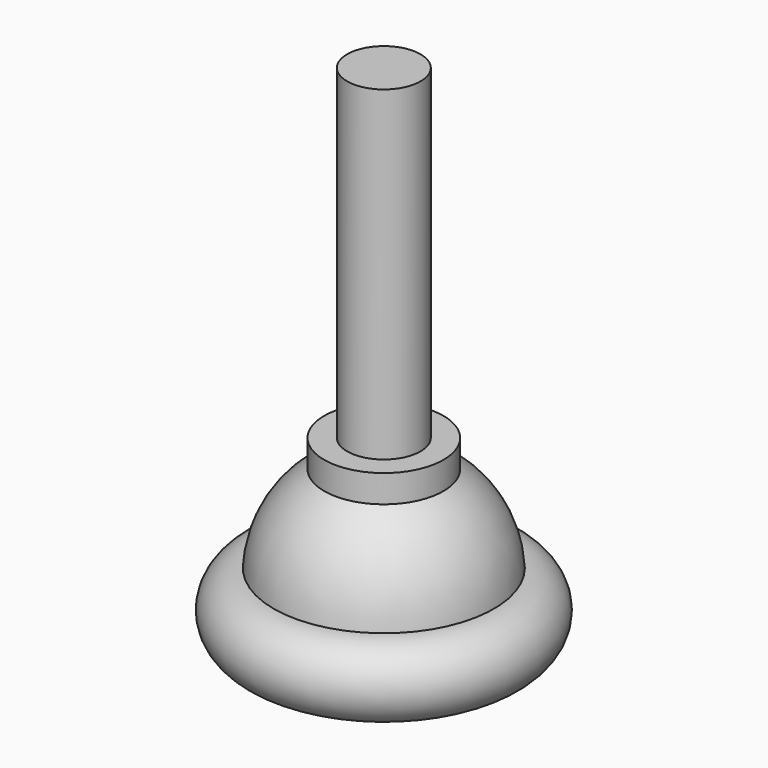
from build123d import *

# Parameters (mm, degrees)
REVOLVE_ONTO_SKETCH_ROLL_ANGLE = 90


with BuildPart() as part:
    # Sketch as drawn → Revolve (revolve)
    with BuildSketch(Plane.XY):
        with BuildLine():
            ThreePointArc((-8, 4), (-4.472136, 1.055728), (0, 0))
            Line((0, 60), (0, 0))
            Line((-4, 60), (0, 60))
            Line((-4, 24.5), (-4, 60))
            Line((-6.5, 24.5), (-4, 24.5))
            Line((-6.5, 21.5), (-6.5, 24.5))
            ThreePointArc((-6.5, 21.5), (-10.398317, 17.414815), (-12, 12))
            ThreePointArc((-12, 12), (-16, 8), (-12, 4))
            Line((-8, 4), (-12, 4))
        make_face()
    revolve(axis=Axis((0, 1, 0), (0, 1, 0)))


with BuildPart() as part_1:
    # Revolve onto Sketch roll: moved
    add(part.part.rotate(Axis((0, 0, 0), (1, 0, 0)), REVOLVE_ONTO_SKETCH_ROLL_ANGLE))


with BuildPart() as part_2:
    # Revolve onto Sketch placement: moved
    add(part_1.part)


solid = part_2.part
